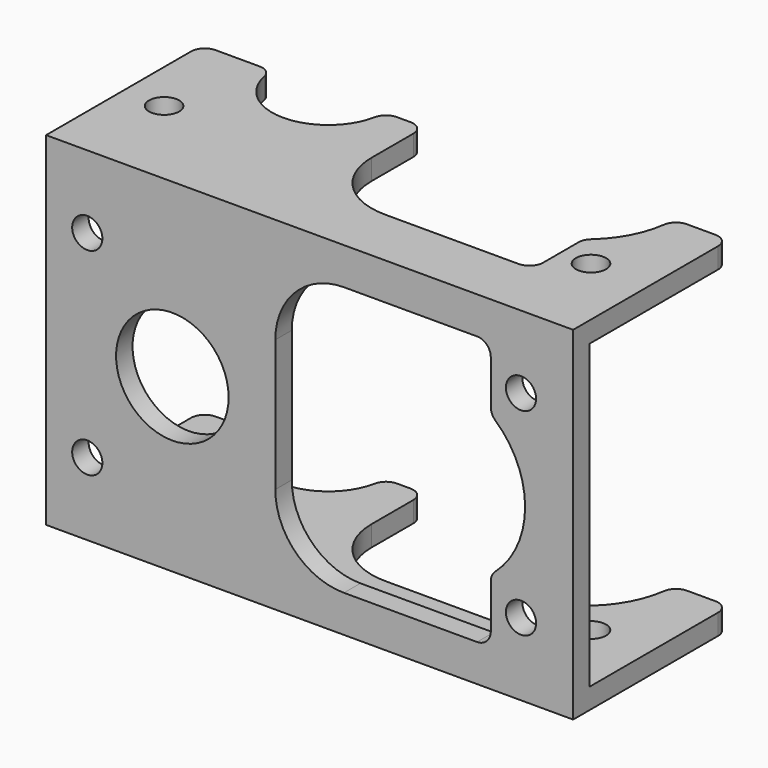
from build123d import *

# Parameters (mm, degrees)
F0_W     = 38.4
F0_H     = 28.4
F0_R     = 1.1
F0_R_2   = 4.1
F1_DEPTH = 1.5
F2_W     = 38.4
F2_H     = 1.5
F3_DEPTH = 11
F6_W     = 38.4
F6_H     = 14.2
F7_DEPTH = 25.001
F8_R     = 4.1
F8_R_2   = 1.1
F9_DEPTH = 1.5
F10_R    = 1


with BuildPart() as f1:
    # F0 (on Top) → F1 (new body)
    with BuildSketch(Plane.XY):
        Rectangle(F0_W, F0_H)
        with Locations((-16.2, -7.2)):
            Circle(F0_R, mode=Mode.SUBTRACT)
        with Locations((14.9, -7.2)):
            Circle(F0_R, mode=Mode.SUBTRACT)
        with Locations((-10, 0)):
            Circle(F0_R_2, mode=Mode.SUBTRACT)
        with Locations((-16.2, 7.2)):
            Circle(F0_R, mode=Mode.SUBTRACT)
        with BuildLine():
            ThreePointArc((-3, 4.8), (-1.5355339059, 8.3355339059), (2, 9.8))
            Line((2, 9.8), (11.7, 9.8))
            ThreePointArc((11.7, 9.8), (12.4071067812, 9.5071067812), (12.7, 8.8))
            Line((12.7, 8.8), (12.7, 5.5901699437))
            ThreePointArc((12.7, 5.5901699437), (12.7871290708, 5.1819216533), (13.0333333333, 4.8448139512))
            ThreePointArc((13.0333333333, 4.8448139512), (15.2, 0), (13.0333333333, -4.8448139512))
            ThreePointArc((13.0333333333, -4.8448139512), (12.7871290708, -5.1819216533), (12.7, -5.5901699437))
            Line((12.7, -5.5901699437), (12.7, -8.8))
            ThreePointArc((12.7, -8.8), (12.4071067812, -9.5071067812), (11.7, -9.8))
            Line((11.7, -9.8), (2, -9.8))
            ThreePointArc((2, -9.8), (-1.5355339059, -8.3355339059), (-3, -4.8))
            Line((-3, -4.8), (-3, 4.8))
        make_face(mode=Mode.SUBTRACT)
        with Locations((14.9, 7.2)):
            Circle(F0_R, mode=Mode.SUBTRACT)
    extrude(amount=F1_DEPTH)

    # F2 (on face) → F3 (join)
    with BuildSketch(Plane(origin=(0, 0, 0), x_dir=(1, 0, 0), z_dir=(0, 0, -1))):
        with Locations((0, 13.45)):
            Rectangle(F2_W, F2_H)
    extrude(amount=F3_DEPTH)

    # F5: F1 across plane


with BuildPart() as f1_1:
    add(f1.part)
    add(f1.part.mirror(Plane.XY.offset(-11)))

    # F6 (on face) → F7 (cut, through all)
    with BuildSketch(Plane(origin=(0, 0, -23.5), x_dir=(1, 0, 0), z_dir=(0, 0, -1))):
        with Locations((0, -7.1)):
            Rectangle(F6_W, F6_H)
    extrude(amount=-F7_DEPTH, mode=Mode.SUBTRACT)

    # F8 (on face) → F9 (cut, through all)
    with BuildSketch(Plane.XZ.offset(14.2)):
        with Locations((-10, -11)):
            Circle(F8_R)
        with Locations((-16.2, -3.8)):
            Circle(F8_R_2)
        with Locations((15.4, -3.8)):
            Circle(F8_R_2)
        with BuildLine():
            Line((12.2, -1.2), (2.5, -1.2))
            ThreePointArc((2.5, -1.2), (-1.0355339059, -2.6644660941), (-2.5, -6.2))
            Line((-2.5, -6.2), (-2.5, -15.8))
            ThreePointArc((-2.5, -15.8), (-1.0355339059, -19.3355339059), (2.5, -20.8))
            Line((2.5, -20.8), (12.2, -20.8))
            ThreePointArc((12.2, -20.8), (12.9071067812, -20.5071067812), (13.2, -19.8))
            Line((13.2, -19.8), (13.2, -16.5901699437))
            ThreePointArc((13.2, -16.5901699437), (13.2871290708, -16.1819216533), (13.5333333333, -15.8448139512))
            ThreePointArc((13.5333333333, -15.8448139512), (15.7, -11), (13.5333333333, -6.1551860488))
            ThreePointArc((13.5333333333, -6.1551860488), (13.2871290708, -5.8180783467), (13.2, -5.4098300563))
            Line((13.2, -5.4098300563), (13.2, -2.2))
            ThreePointArc((13.2, -2.2), (12.9071067812, -1.4928932188), (12.2, -1.2))
        make_face()
        with Locations((-16.2, -18.2)):
            Circle(F8_R_2)
        with Locations((15.4, -18.2)):
            Circle(F8_R_2)
    extrude(amount=-F9_DEPTH, mode=Mode.SUBTRACT)

    # F10
    f10_edges = [f1_1.edges().sort_by_distance(p)[0] for p in [
        (-19.2, 0, -22.75),
        (-19.2, 0, 0.75),
        (-5.9, 0, 0.75),
        (-14.1, 0, 0.75),
        (-5.9, 0, -22.75),
        (-14.1, 0, -22.75),
        (-3, 0, -22.75),
        (15.2, 0, -22.75),
        (15.2, 0, 0.75),
        (19.2, 0, -22.75),
        (19.2, 0, 0.75),
        (-3, 0, 0.75),
    ]]
    fillet(f10_edges, radius=F10_R)


solid = f1_1.part
